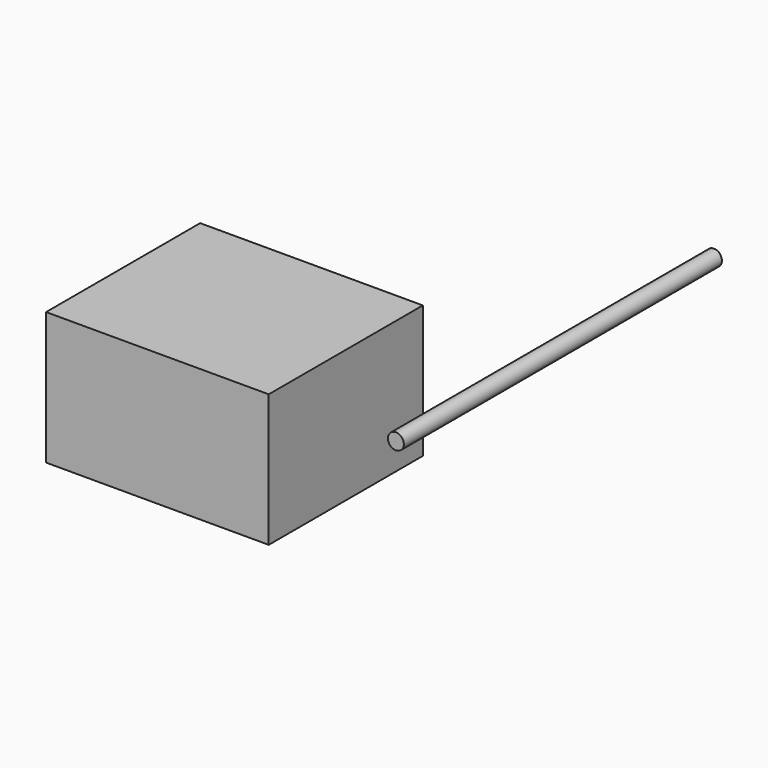
from build123d import *

# Parameters (mm, degrees)
F0_R     = 1.5
F1_DEPTH = 75
F2_W     = 42.000003
F2_H     = 36.324326
F3_DEPTH = 25


with BuildPart() as f1:
    # F0 (on Front) → F1 (new body)
    with BuildSketch(Plane.XZ):
        Circle(F0_R)
    extrude(amount=-F1_DEPTH)


with BuildPart() as f3:
    # F2 (on Top) → F3 (new body)
    with BuildSketch(Plane.XY):
        with Locations((-44.979732, 18.162163)):
            Rectangle(F2_W, F2_H)
    extrude(amount=-F3_DEPTH)


solid = Compound([f1.part, f3.part])
